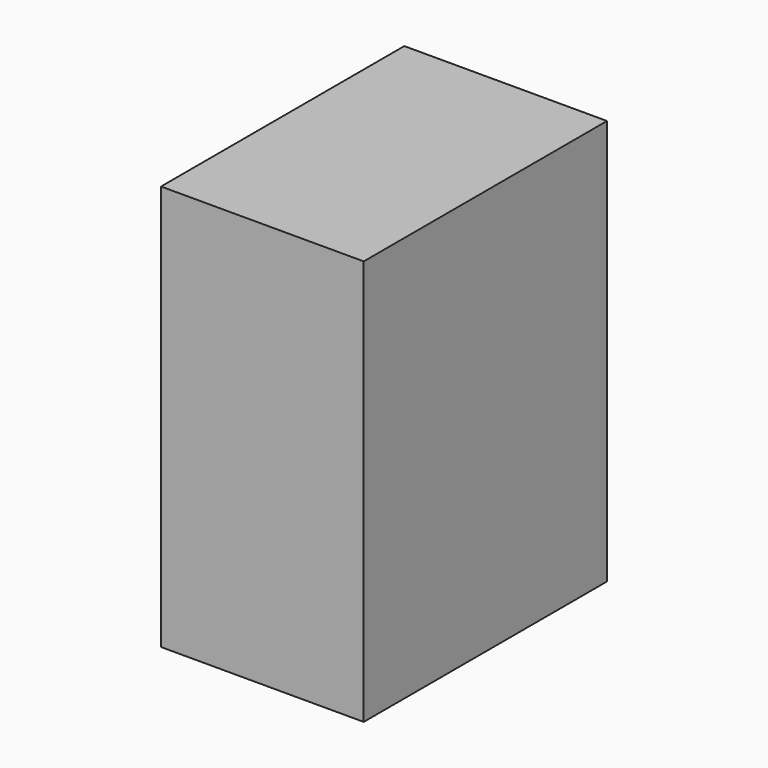
from build123d import *

# Parameters (mm, degrees)
F0_W     = 101.6
F0_H     = 152.4
F1_DEPTH = 101.6


with BuildPart() as f1:
    # F0 (on Top) → F1 (new body)
    with BuildSketch(Plane.XY):
        with Locations((50.8, 76.2)):
            Rectangle(F0_W, F0_H)
    extrude(amount=F1_DEPTH)

    # F2: F1 across face


with BuildPart() as f1_1:
    add(f1.part)
    add(f1.part.mirror(Plane(origin=(50.8, 76.2, 0), x_dir=(1, 0, 0), z_dir=(0, 0, -1))))


solid = f1_1.part
